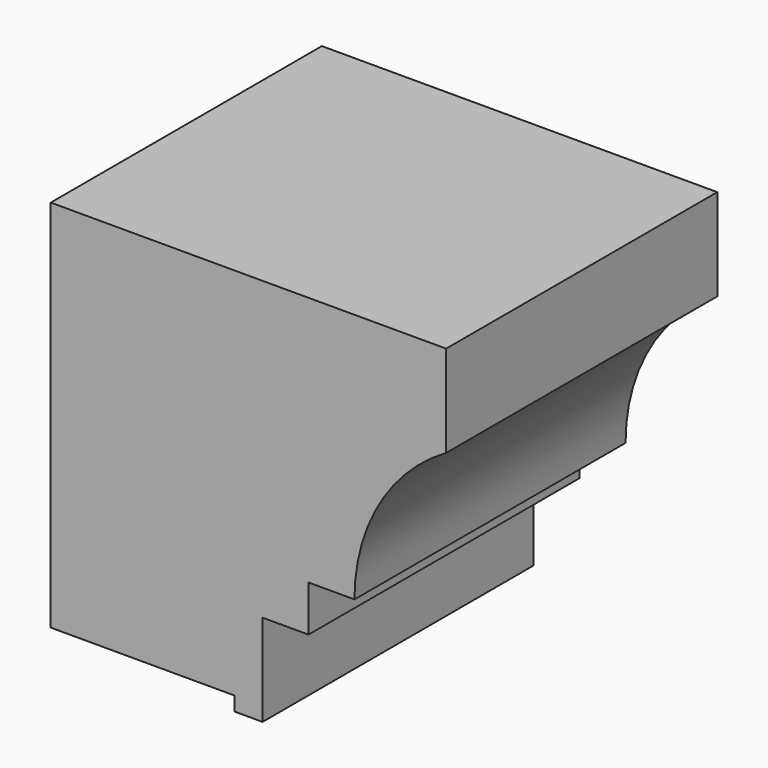
from build123d import *

# Parameters (mm, degrees)
F1_DEPTH = 152.4


with BuildPart() as f1:
    # F0 (on Front) → F1 (new body, symmetric)
    with BuildSketch(Plane.XZ):
        with BuildLine():
            Line((231.817934, -225.382066), (273.135868, -225.382066))
            ThreePointArc((273.135868, -225.382066), (295.232066, -142.917934), (355.6, -82.55))
            Line((355.6, -82.55), (355.6, 0))
            Line((355.6, 0), (0, 0))
            Line((0, 0), (0, -336.55))
            Line((0, -336.55), (165.1, -336.55))
            Line((165.1, -336.55), (165.1, -349.25))
            Line((165.1, -349.25), (190.5, -349.25))
            Line((190.5, -349.25), (190.5, -266.7))
            Line((190.5, -266.7), (231.817934, -266.7))
            Line((231.817934, -266.7), (231.817934, -225.382066))
        make_face()
    extrude(amount=F1_DEPTH, both=True)


solid = f1.part
